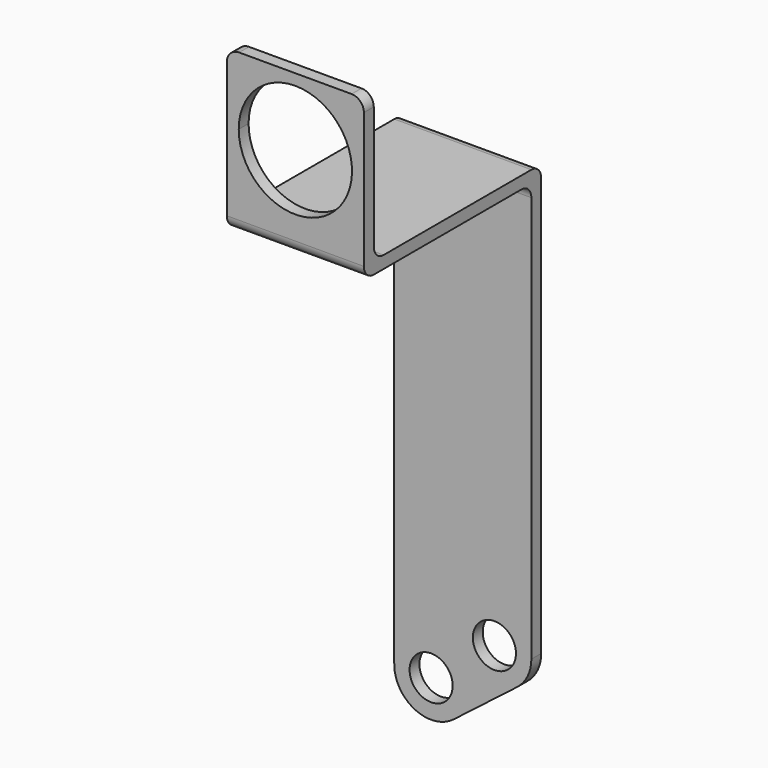
from build123d import *

# Parameters (mm, degrees)
F0_R     = 11.1125
F1_DEPTH = 6.35
F3_DEPTH = 70.7186416791
F5_DEPTH = 6.35
F7_DEPTH = 6.35


with BuildPart() as f1:
    # F0 (on Front) → F1 (new body)
    with BuildSketch(Plane.XZ):
        with BuildLine():
            Line((-174.6695893067, 281.6027870952), (-174.6695893067, 168.4105260595))
            ThreePointArc((-174.6695893067, 168.4105260595), (-164.4736790686, 150.5488967565), (-143.9870209187, 152.3630700653))
            Line((-143.9870209187, 152.3630700653), (-111.3431020089, 177.6217355725))
            ThreePointArc((-111.3431020089, 177.6217355725), (-105.8985434247, 184.2970768892), (-103.9509476276, 192.6881596848))
            Line((-103.9509476276, 192.6881596848), (-103.9509476276, 281.6027870952))
            Line((-103.9509476276, 281.6027870952), (-174.6695893067, 281.6027870952))
        make_face()
        with Locations((-155.6448665375, 167.4294941775)):
            Circle(F0_R, mode=Mode.SUBTRACT)
        with Locations((-123.0009476276, 192.6881596848)):
            Circle(F0_R, mode=Mode.SUBTRACT)
    extrude(amount=F1_DEPTH)

    # F2 (on face) → F3 (join, through all)
    with BuildSketch(Plane(origin=(-174.6695893067, 0, 0), x_dir=(0, -1, 0), z_dir=(-1, 0, 0))):
        with BuildLine():
            Line((0, 408.6027870952), (0, 281.6027870952))
            Line((0, 281.6027870952), (6.35, 281.6027870952))
            Line((6.35, 281.6027870952), (6.35, 402.2527870952))
            ThreePointArc((6.35, 402.2527870952), (8.2098719395, 406.7429151557), (12.7, 408.6027870952))
            Line((12.7, 408.6027870952), (107.95, 408.6027870952))
            ThreePointArc((107.95, 408.6027870952), (112.4401280605, 410.4626590346), (114.3, 414.9527870952))
            Line((114.3, 414.9527870952), (114.3, 491.1527870952))
            Line((114.3, 491.1527870952), (107.95, 491.1527870952))
            Line((107.95, 491.1527870952), (107.95, 421.3027870952))
            ThreePointArc((107.95, 421.3027870952), (106.0901280605, 416.8126590346), (101.6, 414.9527870952))
            Line((101.6, 414.9527870952), (6.35, 414.9527870952))
            ThreePointArc((6.35, 414.9527870952), (1.8598719395, 413.0929151557), (0, 408.6027870952))
        make_face()
    extrude(amount=-F3_DEPTH)

    # F4 (on face) → F5 (cut, through all)
    with BuildSketch(Plane(origin=(0, -107.95, 0), x_dir=(-1, 0, 0), z_dir=(0, 1, 0))):
        with BuildLine():
            ThreePointArc((139.3102684671, 485.4377870952), (118.6556793887, 435.5731980167), (168.5202684671, 456.2277870952))
            ThreePointArc((168.5202684671, 456.2277870952), (159.9648575456, 476.8823761736), (139.3102684671, 485.4377870952))
        make_face()
    extrude(amount=-F5_DEPTH, mode=Mode.SUBTRACT)

    # F6 (on face) → F7 (cut, through all)
    with BuildSketch(Plane(origin=(0, -107.95, 0), x_dir=(-1, 0, 0), z_dir=(0, 1, 0))):
        with BuildLine():
            ThreePointArc((103.9509476276, 484.8027870952), (105.8108195671, 489.2929151557), (110.3009476276, 491.1527870952))
            Line((110.3009476276, 491.1527870952), (103.9509476276, 491.1527870952))
            Line((103.9509476276, 491.1527870952), (103.9509476276, 484.8027870952))
        make_face()
        with BuildLine():
            Line((174.6695893067, 491.1527870952), (168.3195893067, 491.1527870952))
            ThreePointArc((168.3195893067, 491.1527870952), (172.8097173672, 489.2929151557), (174.6695893067, 484.8027870952))
            Line((174.6695893067, 484.8027870952), (174.6695893067, 491.1527870952))
        make_face()
    extrude(amount=-F7_DEPTH, mode=Mode.SUBTRACT)


solid = f1.part
